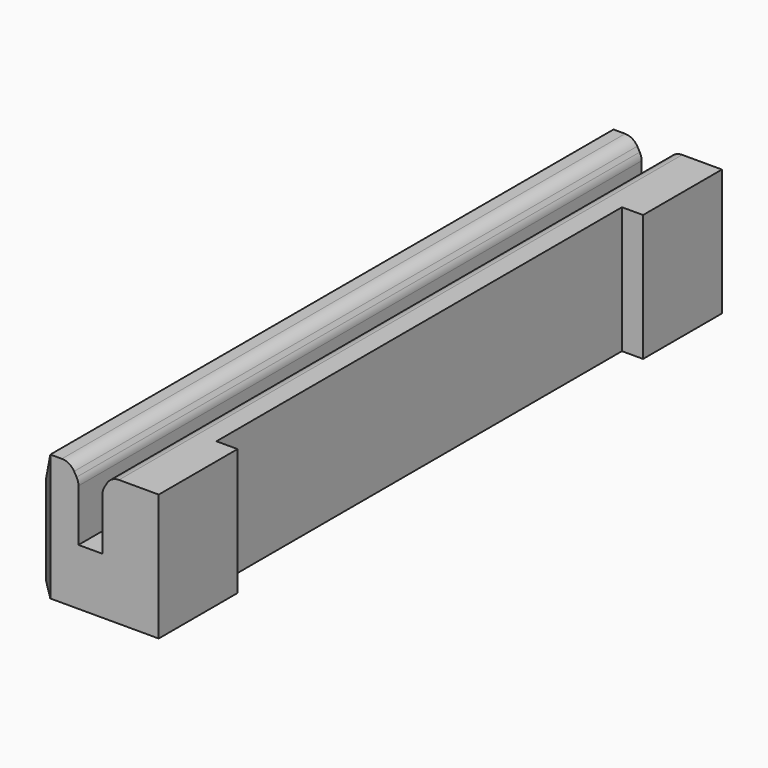
from build123d import *

# Parameters (mm, degrees)
F1_DEPTH = 25
F2_SIZE2 = 1.0392304845
F2_SIZE  = 0.6
F3_SIZE2 = 1.0392304845
F3_SIZE  = 0.6
F4_W     = 7
F4_H     = 9
F5_DEPTH = 1.5
F6_W     = 50
F6_H     = 9
F7_DEPTH = 1
F8_SIZE2 = 2.5980762114
F8_SIZE  = 1.5
F9_SIZE  = 1.5
F10_R    = 1


with BuildPart() as f1:
    # F0 (on Front) → F1 (new body, symmetric)
    with BuildSketch(Plane.XZ):
        Polygon((0.85, 2.5), (0.85, -2.5), (-0.85, -2.5), (-0.85, 2.5), (-3.35, 2.5), (-3.35, -6.5), (3.35, -6.5), (3.35, 2.5), align=None)
    extrude(amount=F1_DEPTH, both=True)

    # F2
    f2_edges = [f1.edges().sort_by_distance(p)[0] for p in [
        (-0.85, 0, 2.5),
    ]]
    f2_side = f1.faces().sort_by_distance((-2.1, 0, 2.5))[0]
    chamfer(f2_edges, length=F2_SIZE, length2=F2_SIZE2, reference=f2_side)

    # F3
    f3_edges = [f1.edges().sort_by_distance(p)[0] for p in [
        (0.85, 0, 2.5),
    ]]
    f3_side = f1.faces().sort_by_distance((2.1, 0, 2.5))[0]
    chamfer(f3_edges, length=F3_SIZE, length2=F3_SIZE2, reference=f3_side)

    # F4 (on face) → F5 (join)
    with BuildSketch(Plane.YZ.offset(3.35)):
        with Locations((-21.5, -2)):
            Rectangle(F4_W, F4_H)
        with Locations((21.5, -2)):
            Rectangle(F4_W, F4_H)
    extrude(amount=F5_DEPTH)

    # F6 (on face) → F7 (join)
    with BuildSketch(Plane(origin=(-3.35, 0, 0), x_dir=(0, -1, 0), z_dir=(-1, 0, 0))):
        with Locations((0, -2)):
            Rectangle(F6_W, F6_H)
    extrude(amount=F7_DEPTH)

    # F8
    f8_edges = [f1.edges().sort_by_distance(p)[0] for p in [
        (-4.35, 0, 2.5),
    ]]
    f8_side = f1.faces().sort_by_distance((-2.9, 0, 2.5))[0]
    chamfer(f8_edges, length=F8_SIZE, length2=F8_SIZE2, reference=f8_side)

    # F9
    f9_edges = [f1.edges().sort_by_distance(p)[0] for p in [
        (-4.35, -25, -3.299038),
        (-4.35, 25, -3.299038),
    ]]
    chamfer(f9_edges, length=F9_SIZE)

    # F10
    f10_edges = [f1.edges().sort_by_distance(p)[0] for p in [
        (-0.85, 0, 1.46077),
        (-1.45, 0, 2.5),
        (1.45, 0, 2.5),
        (0.85, 0, 1.46077),
    ]]
    fillet(f10_edges, radius=F10_R)


solid = f1.part
